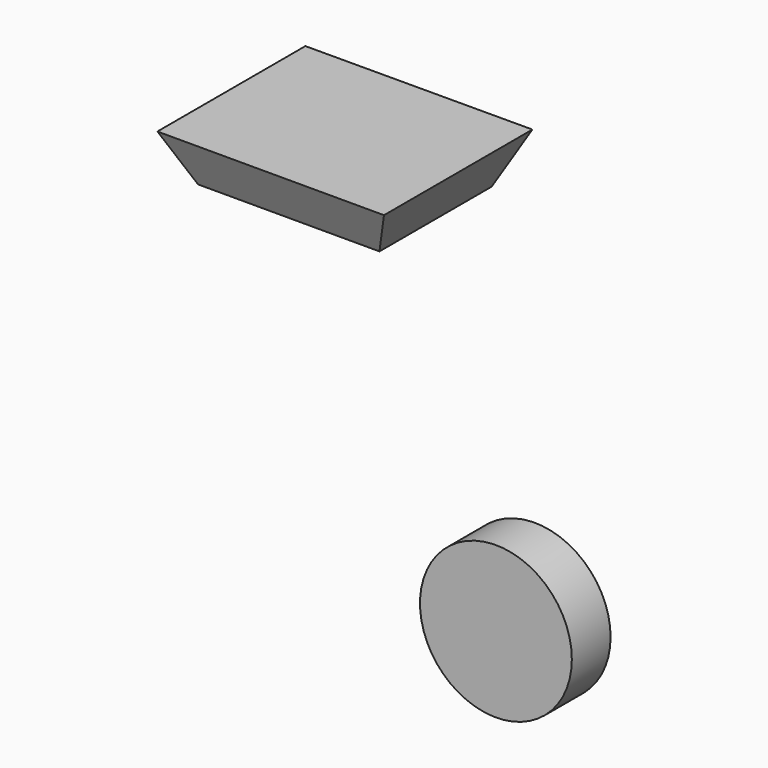
from build123d import *

# Parameters (mm, degrees)
F1_DEPTH = 25.4
F1_TAPER = -25
F2_R     = 39.808975919
F3_DEPTH = 25.4


with BuildPart() as f1:
    # F0 (on Top) → F1 (new body)
    with BuildSketch(Plane.XY):
        Polygon((49.1066873074, 42.5734370947), (-46.013340354, 42.344301939), (-46.013340354, -30.9791862965), (49.1066873074, -30.9791862965), align=None)
    extrude(amount=F1_DEPTH, taper=F1_TAPER)


with BuildPart() as f3:
    # F2 (on Front) → F3 (new body)
    with BuildSketch(Plane.XZ):
        with Locations((105.707809329, -159.2123806477)):
            Circle(F2_R)
    extrude(amount=F3_DEPTH)


solid = Compound([f1.part, f3.part])
